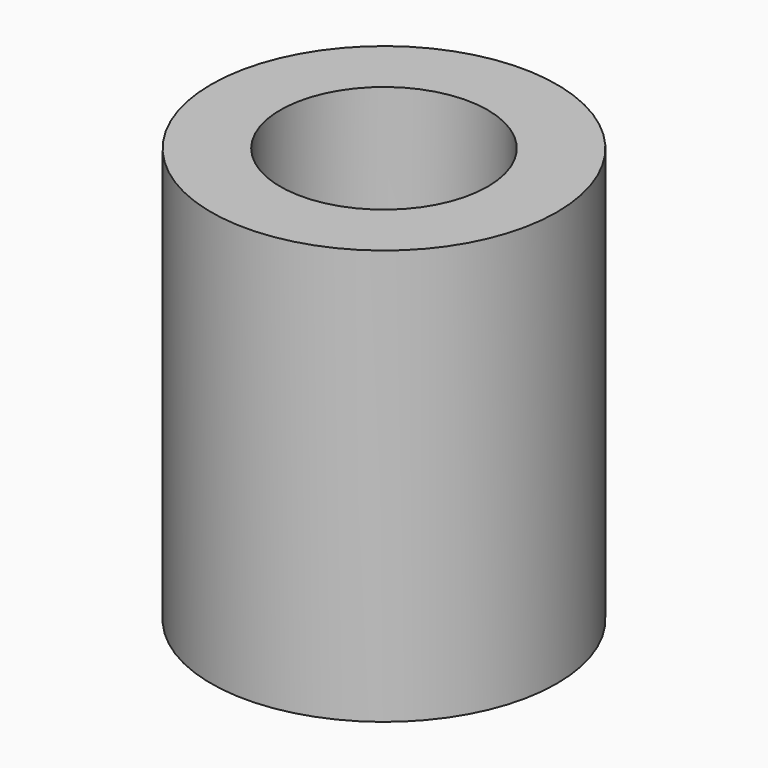
from build123d import *

# Parameters (mm, degrees)
F0_R     = 31.75
F1_DEPTH = 76.2
F2_T     = -12.7
F3_R     = 0.79375
F4_DEPTH = 12.7


with BuildPart() as f1:
    # F0 (on Top) → F1 (new body)
    with BuildSketch(Plane.XY):
        Circle(F0_R)
    extrude(amount=F1_DEPTH)

    # F2
    f2_openings = [f1.faces().sort_by_distance(p)[0] for p in [
        (0, 0, 76.2),
    ]]
    offset(amount=F2_T, openings=f2_openings)

    # F3 (on face) → F4 (cut, through all)
    with BuildSketch(Plane.XY.offset(12.7)):
        with Locations((11.22532, -11.22532)):
            Circle(F3_R)
        with Locations((11.22532, -8.018086)):
            Circle(F3_R)
        with Locations((11.22532, -4.810851)):
            Circle(F3_R)
        with Locations((11.22532, -1.603617)):
            Circle(F3_R)
        with Locations((11.22532, 1.603617)):
            Circle(F3_R)
        with Locations((11.22532, 4.810851)):
            Circle(F3_R)
        with Locations((8.018086, 4.810851)):
            Circle(F3_R)
        with Locations((11.22532, 8.018086)):
            Circle(F3_R)
        with Locations((11.22532, 11.22532)):
            Circle(F3_R)
        with Locations((8.018086, 11.22532)):
            Circle(F3_R)
        with Locations((8.018086, 8.018086)):
            Circle(F3_R)
        with Locations((8.018086, 1.603617)):
            Circle(F3_R)
        with Locations((8.018086, -1.603617)):
            Circle(F3_R)
        with Locations((8.018086, -4.810851)):
            Circle(F3_R)
        with Locations((8.018086, -11.22532)):
            Circle(F3_R)
        with Locations((8.018086, -8.018086)):
            Circle(F3_R)
        with Locations((4.810851, -8.018086)):
            Circle(F3_R)
        with Locations((4.810851, -11.22532)):
            Circle(F3_R)
        with Locations((4.810851, -4.810851)):
            Circle(F3_R)
        with Locations((4.810851, -1.603617)):
            Circle(F3_R)
        with Locations((4.810851, 1.603617)):
            Circle(F3_R)
        with Locations((4.810851, 4.810851)):
            Circle(F3_R)
        with Locations((4.810851, 8.018086)):
            Circle(F3_R)
        with Locations((4.810851, 11.22532)):
            Circle(F3_R)
        with Locations((1.603617, -11.22532)):
            Circle(F3_R)
        with Locations((1.603617, -4.810851)):
            Circle(F3_R)
        with Locations((1.603617, -8.018086)):
            Circle(F3_R)
        with Locations((1.603617, -1.603617)):
            Circle(F3_R)
        with Locations((1.603617, 1.603617)):
            Circle(F3_R)
        with Locations((1.603617, 4.810851)):
            Circle(F3_R)
        with Locations((1.603617, 8.018086)):
            Circle(F3_R)
        with Locations((1.603617, 11.22532)):
            Circle(F3_R)
        with Locations((-1.603617, 11.22532)):
            Circle(F3_R)
        with Locations((-1.603617, -11.22532)):
            Circle(F3_R)
        with Locations((-4.810851, -11.22532)):
            Circle(F3_R)
        with Locations((-4.810851, -8.018086)):
            Circle(F3_R)
        with Locations((-1.603617, -8.018086)):
            Circle(F3_R)
        with Locations((-1.603617, -4.810851)):
            Circle(F3_R)
        with Locations((-4.810851, -4.810851)):
            Circle(F3_R)
        with Locations((-4.810851, -1.603617)):
            Circle(F3_R)
        with Locations((-1.603617, -1.603617)):
            Circle(F3_R)
        with Locations((-1.603617, 1.603617)):
            Circle(F3_R)
        with Locations((-4.810851, 1.603617)):
            Circle(F3_R)
        with Locations((-4.810851, 4.810851)):
            Circle(F3_R)
        with Locations((-1.603617, 4.810851)):
            Circle(F3_R)
        with Locations((-1.603617, 8.018086)):
            Circle(F3_R)
        with Locations((-4.810851, 8.018086)):
            Circle(F3_R)
        with Locations((-4.810851, 11.22532)):
            Circle(F3_R)
        with Locations((-8.018086, 8.018086)):
            Circle(F3_R)
        with Locations((-8.018086, 11.22532)):
            Circle(F3_R)
        with Locations((-11.22532, 11.22532)):
            Circle(F3_R)
        with Locations((-11.22532, 8.018086)):
            Circle(F3_R)
        with Locations((-11.22532, 4.810851)):
            Circle(F3_R)
        with Locations((-8.018086, 4.810851)):
            Circle(F3_R)
        with Locations((-11.22532, 1.603617)):
            Circle(F3_R)
        with Locations((-8.018086, 1.603617)):
            Circle(F3_R)
        with Locations((-8.018086, -1.603617)):
            Circle(F3_R)
        with Locations((-11.22532, -1.603617)):
            Circle(F3_R)
        with Locations((-11.22532, -4.810851)):
            Circle(F3_R)
        with Locations((-8.018086, -4.810851)):
            Circle(F3_R)
        with Locations((-8.018086, -8.018086)):
            Circle(F3_R)
        with Locations((-11.22532, -8.018086)):
            Circle(F3_R)
        with Locations((-11.22532, -11.22532)):
            Circle(F3_R)
        with Locations((-8.018086, -11.22532)):
            Circle(F3_R)
    extrude(amount=-F4_DEPTH, mode=Mode.SUBTRACT)


solid = f1.part
